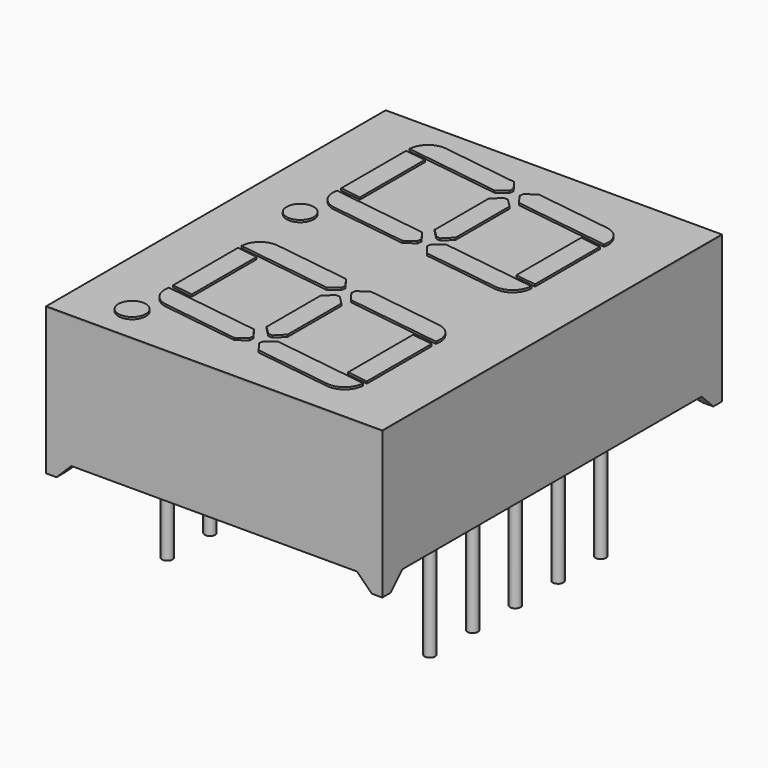
from build123d import *

# Parameters (mm, degrees)
BOX001_W               = 21
BOX001_H               = 19.2
BOX001_DEPTH           = 2
CHAMFER002_SIZE        = 0.7
CHAMFER003_SIZE        = 0.7
BOX_W                  = 15
BOX_H                  = 25
BOX_DEPTH              = 2
CHAMFER_SIZE           = 0.7
CHAMFER001_SIZE        = 0.7
SKETCH_W               = 16
SKETCH_H               = 20.2
PAD_DEPTH              = 7
CYLINDER_R             = 0.2505
CYLINDER_DEPTH         = 10
CYLINDER001_R          = 0.2505
CYLINDER001_DEPTH      = 10
CYLINDER002_R          = 0.2505
CYLINDER002_DEPTH      = 10
CYLINDER003_R          = 0.2505
CYLINDER003_DEPTH      = 10
CYLINDER004_R          = 0.2505
CYLINDER004_DEPTH      = 10
CYLINDER005_R          = 0.2505
CYLINDER005_DEPTH      = 10
CYLINDER006_R          = 0.2505
CYLINDER006_DEPTH      = 10
CYLINDER007_R          = 0.2505
CYLINDER007_DEPTH      = 10
CYLINDER008_R          = 0.2505
CYLINDER008_DEPTH      = 10
CYLINDER009_R          = 0.2505
CYLINDER009_DEPTH      = 10
BOX005_W               = 5
BOX005_H               = 1
BOX005_DEPTH           = 2
BOX005_PLACEMENT_ANGLE = -8
CHAMFER006_SIZE        = 0.4
CHAMFER007_SIZE        = 0.4
FILLET001_R            = 0.9
BOX003_W               = 5
BOX003_H               = 1
BOX003_DEPTH           = 2
BOX003_PLACEMENT_ANGLE = -8
CHAMFER008_SIZE        = 0.4
CHAMFER009_SIZE        = 0.4
FILLET002_R            = 0.9
BOX002_W               = 5
BOX002_H               = 1
BOX002_DEPTH           = 2
BOX002_PLACEMENT_ANGLE = -8
CHAMFER010_SIZE        = 0.4
CHAMFER011_SIZE        = 0.4
FILLET003_R            = 0.9
BOX011_W               = 3
BOX011_H               = 1
BOX011_DEPTH           = 2
BOX011_PLACEMENT_ANGLE = -8
BOX012_W               = 3
BOX012_H               = 1
BOX012_DEPTH           = 2
BOX012_PLACEMENT_ANGLE = -8
BOX010_W               = 1
BOX010_H               = 4
BOX010_DEPTH           = 2
BOX007_W               = 3
BOX007_H               = 1
BOX007_DEPTH           = 2
BOX007_PLACEMENT_ANGLE = -8
BOX008_W               = 3
BOX008_H               = 1
BOX008_DEPTH           = 2
BOX008_PLACEMENT_ANGLE = -8
BOX006_W               = 1
BOX006_H               = 4
BOX006_DEPTH           = 2
BOX009_W               = 1
BOX009_H               = 4
BOX009_DEPTH           = 2
CHAMFER012_SIZE        = 0.4
CHAMFER013_SIZE        = 0.4
CHAMFER014_SIZE        = 0.4
CHAMFER015_SIZE        = 0.4
CYLINDER016_R          = 0.65
CYLINDER016_DEPTH      = 2
BOX004_W               = 5
BOX004_H               = 1
BOX004_DEPTH           = 2
BOX004_PLACEMENT_ANGLE = -8
CHAMFER004_SIZE        = 0.4
CHAMFER005_SIZE        = 0.4
FILLET_R               = 0.9
BOX016_W               = 5
BOX016_H               = 1
BOX016_DEPTH           = 2
BOX016_PLACEMENT_ANGLE = -8
CHAMFER018_SIZE        = 0.4
CHAMFER019_SIZE        = 0.4
FILLET005_R            = 0.9
BOX014_W               = 5
BOX014_H               = 1
BOX014_DEPTH           = 2
BOX014_PLACEMENT_ANGLE = -8
CHAMFER020_SIZE        = 0.4
CHAMFER021_SIZE        = 0.4
FILLET006_R            = 0.9
BOX013_W               = 5
BOX013_H               = 1
BOX013_DEPTH           = 2
BOX013_PLACEMENT_ANGLE = -8
CHAMFER022_SIZE        = 0.4
CHAMFER023_SIZE        = 0.4
FILLET007_R            = 0.9
BOX022_W               = 3
BOX022_H               = 1
BOX022_DEPTH           = 2
BOX022_PLACEMENT_ANGLE = -8
BOX023_W               = 3
BOX023_H               = 1
BOX023_DEPTH           = 2
BOX023_PLACEMENT_ANGLE = -8
BOX021_W               = 1
BOX021_H               = 4
BOX021_DEPTH           = 2
BOX018_W               = 3
BOX018_H               = 1
BOX018_DEPTH           = 2
BOX018_PLACEMENT_ANGLE = -8
BOX019_W               = 3
BOX019_H               = 1
BOX019_DEPTH           = 2
BOX019_PLACEMENT_ANGLE = -8
BOX017_W               = 1
BOX017_H               = 4
BOX017_DEPTH           = 2
BOX020_W               = 1
BOX020_H               = 4
BOX020_DEPTH           = 2
CHAMFER024_SIZE        = 0.4
CHAMFER025_SIZE        = 0.4
CHAMFER026_SIZE        = 0.4
CHAMFER027_SIZE        = 0.4
CYLINDER017_R          = 0.65
CYLINDER017_DEPTH      = 2
BOX015_W               = 5
BOX015_H               = 1
BOX015_DEPTH           = 2
BOX015_PLACEMENT_ANGLE = -8
CHAMFER016_SIZE        = 0.4
CHAMFER017_SIZE        = 0.4
FILLET004_R            = 0.9
BOX024_W               = 16
BOX024_H               = 20.2
BOX024_DEPTH           = 0.05


with BuildPart() as chamfer003:
    # Box001 → Box001 (new body)
    with BuildSketch(Plane(origin=(-4, -14.69, -1.3), x_dir=(1, 0, 0), z_dir=(0, 0, 1))):
        with Locations((10.5, 9.6)):
            Rectangle(BOX001_W, BOX001_H)
    extrude(amount=BOX001_DEPTH)

    # Chamfer002
    chamfer002_edges = [chamfer003.edges().sort_by_distance(p)[0] for p in [
        (6.5, 4.51, 0.7),
    ]]
    chamfer(chamfer002_edges, length=CHAMFER002_SIZE)

    # Chamfer003
    chamfer003_edges = [chamfer003.edges().sort_by_distance(p)[0] for p in [
        (6.5, -14.69, 0.7),
    ]]
    chamfer(chamfer003_edges, length=CHAMFER003_SIZE)


with BuildPart() as chamfer001:
    # Box → Box (new body)
    with BuildSketch(Plane(origin=(-1.25, -18, -1), x_dir=(1, 0, 0), z_dir=(0, 0, 1))):
        with Locations((7.5, 12.5)):
            Rectangle(BOX_W, BOX_H)
    extrude(amount=BOX_DEPTH)

    # Chamfer
    chamfer_edges = [chamfer001.edges().sort_by_distance(p)[0] for p in [
        (-1.25, -5.5, 1),
    ]]
    chamfer(chamfer_edges, length=CHAMFER_SIZE)

    # Chamfer001
    chamfer001_edges = [chamfer001.edges().sort_by_distance(p)[0] for p in [
        (13.75, -5.5, 1),
    ]]
    chamfer(chamfer001_edges, length=CHAMFER001_SIZE)


with BuildPart() as chamfer001_1:
    # Chamfer001 placement: moved
    add(chamfer001.part.moved(Location((0, 0, -0.3))))


with BuildPart() as cut001:
    # Sketch → Pad (new body)
    with BuildSketch(Plane.XY):
        with Locations((6.25, -5.08)):
            Rectangle(SKETCH_W, SKETCH_H)
    extrude(amount=PAD_DEPTH)

    # Cut: cut Chamfer001
    add(chamfer001_1.part, mode=Mode.SUBTRACT)

    # Cut001: cut Chamfer003
    add(chamfer003.part, mode=Mode.SUBTRACT)


with BuildPart() as pin001:
    # Cylinder → Cylinder (new body)
    with BuildSketch(Plane.XY.offset(-5)):
        Circle(CYLINDER_R)
    extrude(amount=CYLINDER_DEPTH)


with BuildPart() as pin002:
    # Cylinder001 → Cylinder001 (new body)
    with BuildSketch(Plane(origin=(0, -2.54, -5), x_dir=(1, 0, 0), z_dir=(0, 0, 1))):
        Circle(CYLINDER001_R)
    extrude(amount=CYLINDER001_DEPTH)


with BuildPart() as pin003:
    # Cylinder002 → Cylinder002 (new body)
    with BuildSketch(Plane(origin=(0, -5.08, -5), x_dir=(1, 0, 0), z_dir=(0, 0, 1))):
        Circle(CYLINDER002_R)
    extrude(amount=CYLINDER002_DEPTH)


with BuildPart() as pin004:
    # Cylinder003 → Cylinder003 (new body)
    with BuildSketch(Plane(origin=(0, -7.62, -5), x_dir=(1, 0, 0), z_dir=(0, 0, 1))):
        Circle(CYLINDER003_R)
    extrude(amount=CYLINDER003_DEPTH)


with BuildPart() as pin005:
    # Cylinder004 → Cylinder004 (new body)
    with BuildSketch(Plane(origin=(0, -10.16, -5), x_dir=(1, 0, 0), z_dir=(0, 0, 1))):
        Circle(CYLINDER004_R)
    extrude(amount=CYLINDER004_DEPTH)


with BuildPart() as pin006:
    # Cylinder005 → Cylinder005 (new body)
    with BuildSketch(Plane(origin=(12.5, -10.16, -5), x_dir=(1, 0, 0), z_dir=(0, 0, 1))):
        Circle(CYLINDER005_R)
    extrude(amount=CYLINDER005_DEPTH)


with BuildPart() as pin007:
    # Cylinder006 → Cylinder006 (new body)
    with BuildSketch(Plane(origin=(12.5, -7.62, -5), x_dir=(1, 0, 0), z_dir=(0, 0, 1))):
        Circle(CYLINDER006_R)
    extrude(amount=CYLINDER006_DEPTH)


with BuildPart() as pin008:
    # Cylinder007 → Cylinder007 (new body)
    with BuildSketch(Plane(origin=(12.5, -5.08, -5), x_dir=(1, 0, 0), z_dir=(0, 0, 1))):
        Circle(CYLINDER007_R)
    extrude(amount=CYLINDER007_DEPTH)


with BuildPart() as pin009:
    # Cylinder008 → Cylinder008 (new body)
    with BuildSketch(Plane(origin=(12.5, -2.54, -5), x_dir=(1, 0, 0), z_dir=(0, 0, 1))):
        Circle(CYLINDER008_R)
    extrude(amount=CYLINDER008_DEPTH)


with BuildPart() as pin010:
    # Cylinder009 → Cylinder009 (new body)
    with BuildSketch(Plane(origin=(12.5, 0, -5), x_dir=(1, 0, 0), z_dir=(0, 0, 1))):
        Circle(CYLINDER009_R)
    extrude(amount=CYLINDER009_DEPTH)


with BuildPart() as fillet001:
    # Box005 → Box005 (new body)
    with BuildSketch(Plane.XY):
        with Locations((2.5, 0.5)):
            Rectangle(BOX005_W, BOX005_H)
    extrude(amount=BOX005_DEPTH)


with BuildPart() as fillet001_1:
    # Box005 placement: moved
    add(fillet001.part.moved(Location((9, 13, 0))).rotate(Axis((9, 13, 0), (0, 0, 1)), BOX005_PLACEMENT_ANGLE))

    # Chamfer006
    chamfer006_edges = [fillet001_1.edges().sort_by_distance(p)[0] for p in [
        (9.139173, 13.990268, 1),
    ]]
    chamfer(chamfer006_edges, length=CHAMFER006_SIZE)

    # Chamfer007
    chamfer007_edges = [fillet001_1.edges().sort_by_distance(p)[0] for p in [
        (9, 13, 1),
    ]]
    chamfer(chamfer007_edges, length=CHAMFER007_SIZE)

    # Fillet001
    fillet001_edges = [fillet001_1.edges().sort_by_distance(p)[0] for p in [
        (13.95134, 12.304134, 1),
    ]]
    fillet(fillet001_edges, radius=FILLET001_R)


with BuildPart() as fillet001_2:
    # Fillet001 placement: moved
    add(fillet001_1.part.moved(Location((-3.65, -1.1, 0))))


with BuildPart() as fillet002:
    # Box003 → Box003 (new body)
    with BuildSketch(Plane.XY):
        with Locations((2.5, 0.5)):
            Rectangle(BOX003_W, BOX003_H)
    extrude(amount=BOX003_DEPTH)


with BuildPart() as fillet002_1:
    # Box003 placement: moved
    add(fillet002.part.moved(Location((0, 13, 0))).rotate(Axis((0, 13, 0), (0, 0, 1)), BOX003_PLACEMENT_ANGLE))

    # Chamfer008
    chamfer008_edges = [fillet002_1.edges().sort_by_distance(p)[0] for p in [
        (4.95134, 12.304134, 1),
    ]]
    chamfer(chamfer008_edges, length=CHAMFER008_SIZE)

    # Chamfer009
    chamfer009_edges = [fillet002_1.edges().sort_by_distance(p)[0] for p in [
        (5.090513, 13.294403, 1),
    ]]
    chamfer(chamfer009_edges, length=CHAMFER009_SIZE)

    # Fillet002
    fillet002_edges = [fillet002_1.edges().sort_by_distance(p)[0] for p in [
        (0, 13, 1),
    ]]
    fillet(fillet002_edges, radius=FILLET002_R)


with BuildPart() as fillet002_2:
    # Fillet002 placement: moved
    add(fillet002_1.part.moved(Location((-0.14, -0.3, 0))))


with BuildPart() as fillet003:
    # Box002 → Box002 (new body)
    with BuildSketch(Plane.XY):
        with Locations((2.5, 0.5)):
            Rectangle(BOX002_W, BOX002_H)
    extrude(amount=BOX002_DEPTH)


with BuildPart() as fillet003_1:
    # Box002 placement: moved
    add(fillet003.part.moved(Location((0, 18, 0))).rotate(Axis((0, 18, 0), (0, 0, 1)), BOX002_PLACEMENT_ANGLE))

    # Chamfer010
    chamfer010_edges = [fillet003_1.edges().sort_by_distance(p)[0] for p in [
        (4.95134, 17.304134, 1),
    ]]
    chamfer(chamfer010_edges, length=CHAMFER010_SIZE)

    # Chamfer011
    chamfer011_edges = [fillet003_1.edges().sort_by_distance(p)[0] for p in [
        (5.090513, 18.294403, 1),
    ]]
    chamfer(chamfer011_edges, length=CHAMFER011_SIZE)

    # Fillet003
    fillet003_edges = [fillet003_1.edges().sort_by_distance(p)[0] for p in [
        (0.139173, 18.990268, 1),
    ]]
    fillet(fillet003_edges, radius=FILLET003_R)


with BuildPart() as kub011:
    # Box011 → Box011 (new body)
    with BuildSketch(Plane.XY):
        with Locations((1.5, 0.5)):
            Rectangle(BOX011_W, BOX011_H)
    extrude(amount=BOX011_DEPTH)


with BuildPart() as kub011_1:
    # Box011 placement: moved
    add(kub011.part.moved(Location((-5, 18.14, 0))).rotate(Axis((-5, 18.14, 0), (0, 0, 1)), BOX011_PLACEMENT_ANGLE))


with BuildPart() as kub012:
    # Box012 → Box012 (new body)
    with BuildSketch(Plane.XY):
        with Locations((1.5, 0.5)):
            Rectangle(BOX012_W, BOX012_H)
    extrude(amount=BOX012_DEPTH)


with BuildPart() as kub012_1:
    # Box012 placement: moved
    add(kub012.part.moved(Location((-5, 13.27, 0))).rotate(Axis((-5, 13.27, 0), (0, 0, 1)), BOX012_PLACEMENT_ANGLE))


with BuildPart() as cut005:
    # Box010 → Box010 (new body)
    with BuildSketch(Plane(origin=(-4, 14, 0), x_dir=(1, 0, 0), z_dir=(0, 0, 1))):
        with Locations((0.5, 2)):
            Rectangle(BOX010_W, BOX010_H)
    extrude(amount=BOX010_DEPTH)

    # Cut004: cut Kub012
    add(kub012_1.part, mode=Mode.SUBTRACT)

    # Cut005: cut Kub011
    add(kub011_1.part, mode=Mode.SUBTRACT)


with BuildPart() as cut005_1:
    # Cut005 placement: moved
    add(cut005.part.moved(Location((13.45, -1.6, 0))))


with BuildPart() as kub007:
    # Box007 → Box007 (new body)
    with BuildSketch(Plane.XY):
        with Locations((1.5, 0.5)):
            Rectangle(BOX007_W, BOX007_H)
    extrude(amount=BOX007_DEPTH)


with BuildPart() as kub007_1:
    # Box007 placement: moved
    add(kub007.part.moved(Location((-5, 18.14, 0))).rotate(Axis((-5, 18.14, 0), (0, 0, 1)), BOX007_PLACEMENT_ANGLE))


with BuildPart() as kub008:
    # Box008 → Box008 (new body)
    with BuildSketch(Plane.XY):
        with Locations((1.5, 0.5)):
            Rectangle(BOX008_W, BOX008_H)
    extrude(amount=BOX008_DEPTH)


with BuildPart() as kub008_1:
    # Box008 placement: moved
    add(kub008.part.moved(Location((-5, 13.27, 0))).rotate(Axis((-5, 13.27, 0), (0, 0, 1)), BOX008_PLACEMENT_ANGLE))


with BuildPart() as cut003:
    # Box006 → Box006 (new body)
    with BuildSketch(Plane(origin=(-4, 14, 0), x_dir=(1, 0, 0), z_dir=(0, 0, 1))):
        with Locations((0.5, 2)):
            Rectangle(BOX006_W, BOX006_H)
    extrude(amount=BOX006_DEPTH)

    # Cut002: cut Kub008
    add(kub008_1.part, mode=Mode.SUBTRACT)

    # Cut003: cut Kub007
    add(kub007_1.part, mode=Mode.SUBTRACT)


with BuildPart() as cut003_1:
    # Cut003 placement: moved
    add(cut003.part.moved(Location((4, -0.2, 0))))


with BuildPart() as chamfer015:
    # Box009 → Box009 (new body)
    with BuildSketch(Plane(origin=(-10, 14, 0), x_dir=(1, 0, 0), z_dir=(0, 0, 1))):
        with Locations((0.5, 2)):
            Rectangle(BOX009_W, BOX009_H)
    extrude(amount=BOX009_DEPTH)

    # Chamfer012
    chamfer012_edges = [chamfer015.edges().sort_by_distance(p)[0] for p in [
        (-9, 14, 1),
    ]]
    chamfer(chamfer012_edges, length=CHAMFER012_SIZE)

    # Chamfer013
    chamfer013_edges = [chamfer015.edges().sort_by_distance(p)[0] for p in [
        (-9, 18, 1),
    ]]
    chamfer(chamfer013_edges, length=CHAMFER013_SIZE)

    # Chamfer014
    chamfer014_edges = [chamfer015.edges().sort_by_distance(p)[0] for p in [
        (-10, 14, 1),
    ]]
    chamfer(chamfer014_edges, length=CHAMFER014_SIZE)

    # Chamfer015
    chamfer015_edges = [chamfer015.edges().sort_by_distance(p)[0] for p in [
        (-10, 18, 1),
    ]]
    chamfer(chamfer015_edges, length=CHAMFER015_SIZE)


with BuildPart() as chamfer015_1:
    # Chamfer015 placement: moved
    add(chamfer015.part.moved(Location((14.8, -0.9, 0))))


with BuildPart() as cylinder:
    # Cylinder016 → Cylinder016 (new body)
    with BuildSketch(Plane(origin=(0, 11.5, 0), x_dir=(1, 0, 0), z_dir=(0, 0, 1))):
        Circle(CYLINDER016_R)
    extrude(amount=CYLINDER016_DEPTH)


with BuildPart() as digit001:
    # Box004 → Box004 (new body)
    with BuildSketch(Plane.XY):
        with Locations((2.5, 0.5)):
            Rectangle(BOX004_W, BOX004_H)
    extrude(amount=BOX004_DEPTH)


with BuildPart() as digit001_1:
    # Box004 placement: moved
    add(digit001.part.moved(Location((9, 18, 0))).rotate(Axis((9, 18, 0), (0, 0, 1)), BOX004_PLACEMENT_ANGLE))

    # Chamfer004
    chamfer004_edges = [digit001_1.edges().sort_by_distance(p)[0] for p in [
        (9, 18, 1),
    ]]
    chamfer(chamfer004_edges, length=CHAMFER004_SIZE)

    # Chamfer005
    chamfer005_edges = [digit001_1.edges().sort_by_distance(p)[0] for p in [
        (9.139173, 18.990268, 1),
    ]]
    chamfer(chamfer005_edges, length=CHAMFER005_SIZE)

    # Fillet
    fillet_edges = [digit001_1.edges().sort_by_distance(p)[0] for p in [
        (14.090513, 18.294403, 1),
    ]]
    fillet(fillet_edges, radius=FILLET_R)


with BuildPart() as digit001_2:
    # Fillet placement: moved
    add(digit001_1.part.moved(Location((-3.5, -0.8, 0))))

    # Fusion: union Fillet001, Fillet002, Fillet003, Cut005, Cut003, Chamfer015, Cylinder
    add(fillet001_2.part)
    add(fillet002_2.part)
    add(fillet003_1.part)
    add(cut005_1.part)
    add(cut003_1.part)
    add(chamfer015_1.part)
    add(cylinder.part)


with BuildPart() as digit001_3:
    # Fusion placement: moved
    add(digit001_2.part.moved(Location((1, -15, 5.1))))


with BuildPart() as fillet005:
    # Box016 → Box016 (new body)
    with BuildSketch(Plane.XY):
        with Locations((2.5, 0.5)):
            Rectangle(BOX016_W, BOX016_H)
    extrude(amount=BOX016_DEPTH)


with BuildPart() as fillet005_1:
    # Box016 placement: moved
    add(fillet005.part.moved(Location((9, 13, 0))).rotate(Axis((9, 13, 0), (0, 0, 1)), BOX016_PLACEMENT_ANGLE))

    # Chamfer018
    chamfer018_edges = [fillet005_1.edges().sort_by_distance(p)[0] for p in [
        (9.139173, 13.990268, 1),
    ]]
    chamfer(chamfer018_edges, length=CHAMFER018_SIZE)

    # Chamfer019
    chamfer019_edges = [fillet005_1.edges().sort_by_distance(p)[0] for p in [
        (9, 13, 1),
    ]]
    chamfer(chamfer019_edges, length=CHAMFER019_SIZE)

    # Fillet005
    fillet005_edges = [fillet005_1.edges().sort_by_distance(p)[0] for p in [
        (13.95134, 12.304134, 1),
    ]]
    fillet(fillet005_edges, radius=FILLET005_R)


with BuildPart() as fillet005_2:
    # Fillet005 placement: moved
    add(fillet005_1.part.moved(Location((-3.65, -1.1, 0))))


with BuildPart() as fillet006:
    # Box014 → Box014 (new body)
    with BuildSketch(Plane.XY):
        with Locations((2.5, 0.5)):
            Rectangle(BOX014_W, BOX014_H)
    extrude(amount=BOX014_DEPTH)


with BuildPart() as fillet006_1:
    # Box014 placement: moved
    add(fillet006.part.moved(Location((0, 13, 0))).rotate(Axis((0, 13, 0), (0, 0, 1)), BOX014_PLACEMENT_ANGLE))

    # Chamfer020
    chamfer020_edges = [fillet006_1.edges().sort_by_distance(p)[0] for p in [
        (4.95134, 12.304134, 1),
    ]]
    chamfer(chamfer020_edges, length=CHAMFER020_SIZE)

    # Chamfer021
    chamfer021_edges = [fillet006_1.edges().sort_by_distance(p)[0] for p in [
        (5.090513, 13.294403, 1),
    ]]
    chamfer(chamfer021_edges, length=CHAMFER021_SIZE)

    # Fillet006
    fillet006_edges = [fillet006_1.edges().sort_by_distance(p)[0] for p in [
        (0, 13, 1),
    ]]
    fillet(fillet006_edges, radius=FILLET006_R)


with BuildPart() as fillet006_2:
    # Fillet006 placement: moved
    add(fillet006_1.part.moved(Location((-0.14, -0.3, 0))))


with BuildPart() as fillet007:
    # Box013 → Box013 (new body)
    with BuildSketch(Plane.XY):
        with Locations((2.5, 0.5)):
            Rectangle(BOX013_W, BOX013_H)
    extrude(amount=BOX013_DEPTH)


with BuildPart() as fillet007_1:
    # Box013 placement: moved
    add(fillet007.part.moved(Location((0, 18, 0))).rotate(Axis((0, 18, 0), (0, 0, 1)), BOX013_PLACEMENT_ANGLE))

    # Chamfer022
    chamfer022_edges = [fillet007_1.edges().sort_by_distance(p)[0] for p in [
        (4.95134, 17.304134, 1),
    ]]
    chamfer(chamfer022_edges, length=CHAMFER022_SIZE)

    # Chamfer023
    chamfer023_edges = [fillet007_1.edges().sort_by_distance(p)[0] for p in [
        (5.090513, 18.294403, 1),
    ]]
    chamfer(chamfer023_edges, length=CHAMFER023_SIZE)

    # Fillet007
    fillet007_edges = [fillet007_1.edges().sort_by_distance(p)[0] for p in [
        (0.139173, 18.990268, 1),
    ]]
    fillet(fillet007_edges, radius=FILLET007_R)


with BuildPart() as kub022:
    # Box022 → Box022 (new body)
    with BuildSketch(Plane.XY):
        with Locations((1.5, 0.5)):
            Rectangle(BOX022_W, BOX022_H)
    extrude(amount=BOX022_DEPTH)


with BuildPart() as kub022_1:
    # Box022 placement: moved
    add(kub022.part.moved(Location((-5, 18.14, 0))).rotate(Axis((-5, 18.14, 0), (0, 0, 1)), BOX022_PLACEMENT_ANGLE))


with BuildPart() as kub023:
    # Box023 → Box023 (new body)
    with BuildSketch(Plane.XY):
        with Locations((1.5, 0.5)):
            Rectangle(BOX023_W, BOX023_H)
    extrude(amount=BOX023_DEPTH)


with BuildPart() as kub023_1:
    # Box023 placement: moved
    add(kub023.part.moved(Location((-5, 13.27, 0))).rotate(Axis((-5, 13.27, 0), (0, 0, 1)), BOX023_PLACEMENT_ANGLE))


with BuildPart() as cut009:
    # Box021 → Box021 (new body)
    with BuildSketch(Plane(origin=(-4, 14, 0), x_dir=(1, 0, 0), z_dir=(0, 0, 1))):
        with Locations((0.5, 2)):
            Rectangle(BOX021_W, BOX021_H)
    extrude(amount=BOX021_DEPTH)

    # Cut008: cut Kub023
    add(kub023_1.part, mode=Mode.SUBTRACT)

    # Cut009: cut Kub022
    add(kub022_1.part, mode=Mode.SUBTRACT)


with BuildPart() as cut009_1:
    # Cut009 placement: moved
    add(cut009.part.moved(Location((13.45, -1.6, 0))))


with BuildPart() as kub018:
    # Box018 → Box018 (new body)
    with BuildSketch(Plane.XY):
        with Locations((1.5, 0.5)):
            Rectangle(BOX018_W, BOX018_H)
    extrude(amount=BOX018_DEPTH)


with BuildPart() as kub018_1:
    # Box018 placement: moved
    add(kub018.part.moved(Location((-5, 18.14, 0))).rotate(Axis((-5, 18.14, 0), (0, 0, 1)), BOX018_PLACEMENT_ANGLE))


with BuildPart() as kub019:
    # Box019 → Box019 (new body)
    with BuildSketch(Plane.XY):
        with Locations((1.5, 0.5)):
            Rectangle(BOX019_W, BOX019_H)
    extrude(amount=BOX019_DEPTH)


with BuildPart() as kub019_1:
    # Box019 placement: moved
    add(kub019.part.moved(Location((-5, 13.27, 0))).rotate(Axis((-5, 13.27, 0), (0, 0, 1)), BOX019_PLACEMENT_ANGLE))


with BuildPart() as cut007:
    # Box017 → Box017 (new body)
    with BuildSketch(Plane(origin=(-4, 14, 0), x_dir=(1, 0, 0), z_dir=(0, 0, 1))):
        with Locations((0.5, 2)):
            Rectangle(BOX017_W, BOX017_H)
    extrude(amount=BOX017_DEPTH)

    # Cut006: cut Kub019
    add(kub019_1.part, mode=Mode.SUBTRACT)

    # Cut007: cut Kub018
    add(kub018_1.part, mode=Mode.SUBTRACT)


with BuildPart() as cut007_1:
    # Cut007 placement: moved
    add(cut007.part.moved(Location((4, -0.2, 0))))


with BuildPart() as chamfer027:
    # Box020 → Box020 (new body)
    with BuildSketch(Plane(origin=(-10, 14, 0), x_dir=(1, 0, 0), z_dir=(0, 0, 1))):
        with Locations((0.5, 2)):
            Rectangle(BOX020_W, BOX020_H)
    extrude(amount=BOX020_DEPTH)

    # Chamfer024
    chamfer024_edges = [chamfer027.edges().sort_by_distance(p)[0] for p in [
        (-9, 14, 1),
    ]]
    chamfer(chamfer024_edges, length=CHAMFER024_SIZE)

    # Chamfer025
    chamfer025_edges = [chamfer027.edges().sort_by_distance(p)[0] for p in [
        (-9, 18, 1),
    ]]
    chamfer(chamfer025_edges, length=CHAMFER025_SIZE)

    # Chamfer026
    chamfer026_edges = [chamfer027.edges().sort_by_distance(p)[0] for p in [
        (-10, 14, 1),
    ]]
    chamfer(chamfer026_edges, length=CHAMFER026_SIZE)

    # Chamfer027
    chamfer027_edges = [chamfer027.edges().sort_by_distance(p)[0] for p in [
        (-10, 18, 1),
    ]]
    chamfer(chamfer027_edges, length=CHAMFER027_SIZE)


with BuildPart() as chamfer027_1:
    # Chamfer027 placement: moved
    add(chamfer027.part.moved(Location((14.8, -0.9, 0))))


with BuildPart() as cylinder001:
    # Cylinder017 → Cylinder017 (new body)
    with BuildSketch(Plane(origin=(0, 11.5, 0), x_dir=(1, 0, 0), z_dir=(0, 0, 1))):
        Circle(CYLINDER017_R)
    extrude(amount=CYLINDER017_DEPTH)


with BuildPart() as digit002:
    # Box015 → Box015 (new body)
    with BuildSketch(Plane.XY):
        with Locations((2.5, 0.5)):
            Rectangle(BOX015_W, BOX015_H)
    extrude(amount=BOX015_DEPTH)


with BuildPart() as digit002_1:
    # Box015 placement: moved
    add(digit002.part.moved(Location((9, 18, 0))).rotate(Axis((9, 18, 0), (0, 0, 1)), BOX015_PLACEMENT_ANGLE))

    # Chamfer016
    chamfer016_edges = [digit002_1.edges().sort_by_distance(p)[0] for p in [
        (9, 18, 1),
    ]]
    chamfer(chamfer016_edges, length=CHAMFER016_SIZE)

    # Chamfer017
    chamfer017_edges = [digit002_1.edges().sort_by_distance(p)[0] for p in [
        (9.139173, 18.990268, 1),
    ]]
    chamfer(chamfer017_edges, length=CHAMFER017_SIZE)

    # Fillet004
    fillet004_edges = [digit002_1.edges().sort_by_distance(p)[0] for p in [
        (14.090513, 18.294403, 1),
    ]]
    fillet(fillet004_edges, radius=FILLET004_R)


with BuildPart() as digit002_2:
    # Fillet004 placement: moved
    add(digit002_1.part.moved(Location((-3.5, -0.8, 0))))

    # Fusion001: union Fillet005, Fillet006, Fillet007, Cut009, Cut007, Chamfer027, Cylinder001
    add(fillet005_2.part)
    add(fillet006_2.part)
    add(fillet007_1.part)
    add(cut009_1.part)
    add(cut007_1.part)
    add(chamfer027_1.part)
    add(cylinder001.part)


with BuildPart() as digit002_3:
    # Fusion001 placement: moved
    add(digit002_2.part.moved(Location((1, -25, 5.1))))


with BuildPart() as topplate:
    # Box024 → Box024 (new body)
    with BuildSketch(Plane(origin=(-1.75, -15.18, 6.95), x_dir=(1, 0, 0), z_dir=(0, 0, 1))):
        with Locations((8, 10.1)):
            Rectangle(BOX024_W, BOX024_H)
    extrude(amount=BOX024_DEPTH)


solid = Compound([cut001.part, pin001.part, pin002.part, pin003.part, pin004.part, pin005.part, pin006.part, pin007.part, pin008.part, pin009.part, pin010.part, digit001_3.part, digit002_3.part, topplate.part])
